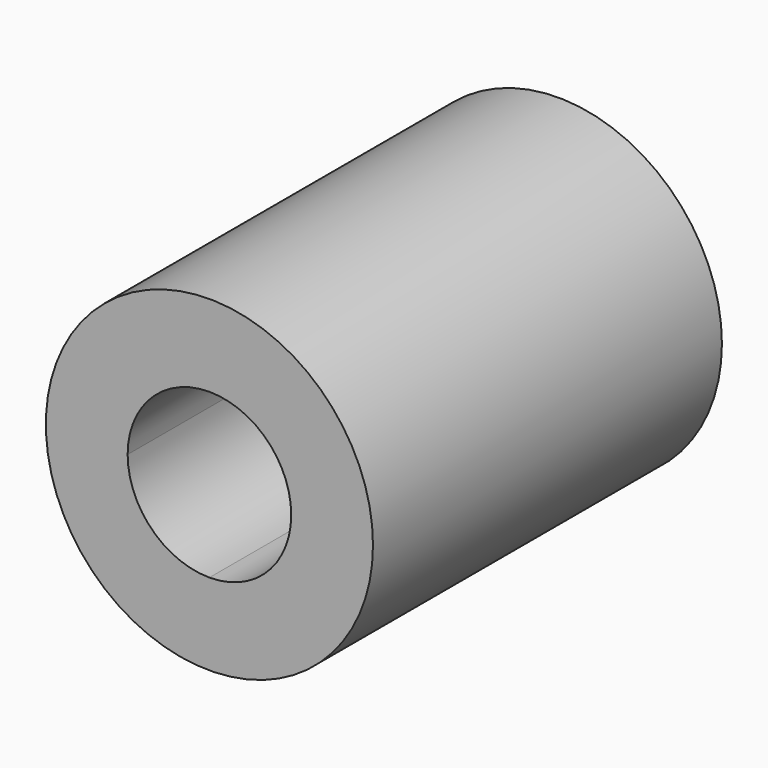
from build123d import *

# Parameters (mm, degrees)
F0_R     = 9.525
F1_DEPTH = 25.4
F2_DEPTH = 25.4
F3_DEPTH = 12.0142


with BuildPart() as f1:
    # F0 (on Front) → F1 (new body)
    with BuildSketch(Plane.XZ):
        Circle(F0_R)
        Polygon((-4.7625, 0), (-4.7625, 4.7625), (0, 4.7625), (4.7625, 4.7625), (4.7625, 0), (4.7625, -4.7625), (0, -4.7625), (-4.7625, -4.7625), align=None, mode=Mode.SUBTRACT)
        with BuildLine():
            Line((4.7625, 4.7625), (0, 4.7625))
            ThreePointArc((0, 4.7625), (3.367596, 3.367596), (4.7625, 0))
            Line((4.7625, 0), (4.7625, 4.7625))
        make_face()
        with BuildLine():
            ThreePointArc((4.7625, 0), (3.367596, 3.367596), (0, 4.7625))
            ThreePointArc((0, 4.7625), (-3.367596, 3.367596), (-4.7625, 0))
            ThreePointArc((-4.7625, 0), (-3.367596, -3.367596), (0, -4.7625))
            ThreePointArc((0, -4.7625), (3.367596, -3.367596), (4.7625, 0))
        make_face()
        with BuildLine():
            ThreePointArc((0, -4.7625), (-3.367596, -3.367596), (-4.7625, 0))
            Line((-4.7625, 0), (-4.7625, -4.7625))
            Line((-4.7625, -4.7625), (0, -4.7625))
        make_face()
        with BuildLine():
            Line((4.7625, -4.7625), (4.7625, 0))
            ThreePointArc((4.7625, 0), (3.367596, -3.367596), (0, -4.7625))
            Line((0, -4.7625), (4.7625, -4.7625))
        make_face()
        with BuildLine():
            Line((0, 4.7625), (-4.7625, 4.7625))
            Line((-4.7625, 4.7625), (-4.7625, 0))
            ThreePointArc((-4.7625, 0), (-3.367596, 3.367596), (0, 4.7625))
        make_face()
    extrude(amount=F1_DEPTH)

    # F0 (on Front) → F2 (cut)
    with BuildSketch(Plane.XZ):
        with BuildLine():
            ThreePointArc((4.7625, 0), (3.367596, 3.367596), (0, 4.7625))
            ThreePointArc((0, 4.7625), (-3.367596, 3.367596), (-4.7625, 0))
            ThreePointArc((-4.7625, 0), (-3.367596, -3.367596), (0, -4.7625))
            ThreePointArc((0, -4.7625), (3.367596, -3.367596), (4.7625, 0))
        make_face()
    extrude(amount=F2_DEPTH, mode=Mode.SUBTRACT)

    # F0 (on Front) → F3 (cut)
    with BuildSketch(Plane.XZ):
        with BuildLine():
            ThreePointArc((0, -4.7625), (-3.367596, -3.367596), (-4.7625, 0))
            Line((-4.7625, 0), (-4.7625, -4.7625))
            Line((-4.7625, -4.7625), (0, -4.7625))
        make_face()
        with BuildLine():
            Line((4.7625, -4.7625), (4.7625, 0))
            ThreePointArc((4.7625, 0), (3.367596, -3.367596), (0, -4.7625))
            Line((0, -4.7625), (4.7625, -4.7625))
        make_face()
        with BuildLine():
            Line((0, 4.7625), (-4.7625, 4.7625))
            Line((-4.7625, 4.7625), (-4.7625, 0))
            ThreePointArc((-4.7625, 0), (-3.367596, 3.367596), (0, 4.7625))
        make_face()
        with BuildLine():
            Line((4.7625, 4.7625), (0, 4.7625))
            ThreePointArc((0, 4.7625), (3.367596, 3.367596), (4.7625, 0))
            Line((4.7625, 0), (4.7625, 4.7625))
        make_face()
    extrude(amount=F3_DEPTH, mode=Mode.SUBTRACT)


solid = f1.part
